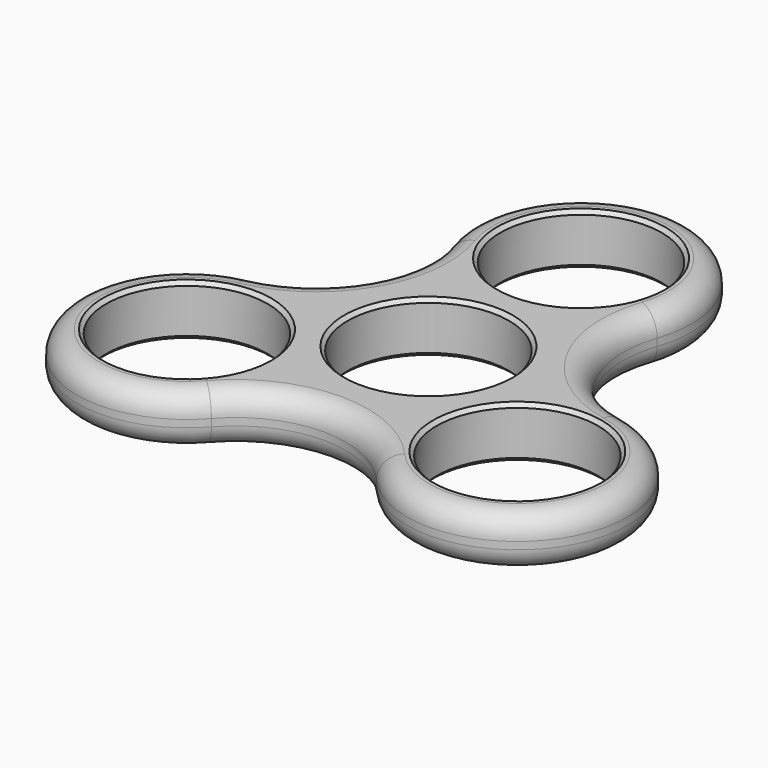
from build123d import *

# Parameters (mm, degrees)
F0_R     = 11
F1_DEPTH = 7
F2_R     = 3
F3_SIZE  = 0.5


with BuildPart() as f1:
    # F0 (on Top) → F1 (new body)
    with BuildSketch(Plane.XY):
        with BuildLine():
            ThreePointArc((14.2133074813, 21.2060569004), (0, 41), (-14.2133074813, 21.2060569004))
            ThreePointArc((-14.2133074813, 21.2060569004), (-15.4362339058, 8.9121138008), (-25.4716377305, 1.7060569004))
            ThreePointArc((-25.4716377305, 1.7060569004), (-35.5070415552, -20.5), (-11.2583302492, -22.9121138008))
            ThreePointArc((-11.2583302492, -22.9121138008), (0, -17.8242276016), (11.2583302492, -22.9121138008))
            ThreePointArc((11.2583302492, -22.9121138008), (35.5070415552, -20.5), (25.4716377305, 1.7060569004))
            ThreePointArc((25.4716377305, 1.7060569004), (15.4362339058, 8.9121138008), (14.2133074813, 21.2060569004))
        make_face()
        with Locations((-22.5166604984, -13)):
            Circle(F0_R, mode=Mode.SUBTRACT)
        with Locations((22.5166604984, -13)):
            Circle(F0_R, mode=Mode.SUBTRACT)
        Circle(F0_R, mode=Mode.SUBTRACT)
        with Locations((0, 26)):
            Circle(F0_R, mode=Mode.SUBTRACT)
    extrude(amount=F1_DEPTH)

    # F2
    f2_edges = [f1.edges().sort_by_distance(p)[0] for p in [
        (0, 41, 7),
        (0, 41, 0),
    ]]
    fillet(f2_edges, radius=F2_R)

    # F3
    f3_edges = [f1.edges().sort_by_distance(p)[0] for p in [
        (0, 38, 0),
        (12.838158, 7.412114, 0),
        (-12.838158, 7.412114, 0),
        (32.908965, -19, 0),
        (-32.908965, -19, 0),
        (0, -14.824228, 0),
        (-33.51666, -13, 0),
        (11.51666, -13, 0),
        (-11, 0, 0),
        (-11, 26, 0),
        (0, 38, 7),
        (12.838158, 7.412114, 7),
        (-12.838158, 7.412114, 7),
        (32.908965, -19, 7),
        (-32.908965, -19, 7),
        (0, -14.824228, 7),
        (-33.51666, -13, 7),
        (11.51666, -13, 7),
        (-11, 0, 7),
        (-11, 26, 7),
    ]]
    chamfer(f3_edges, length=F3_SIZE)


solid = f1.part
